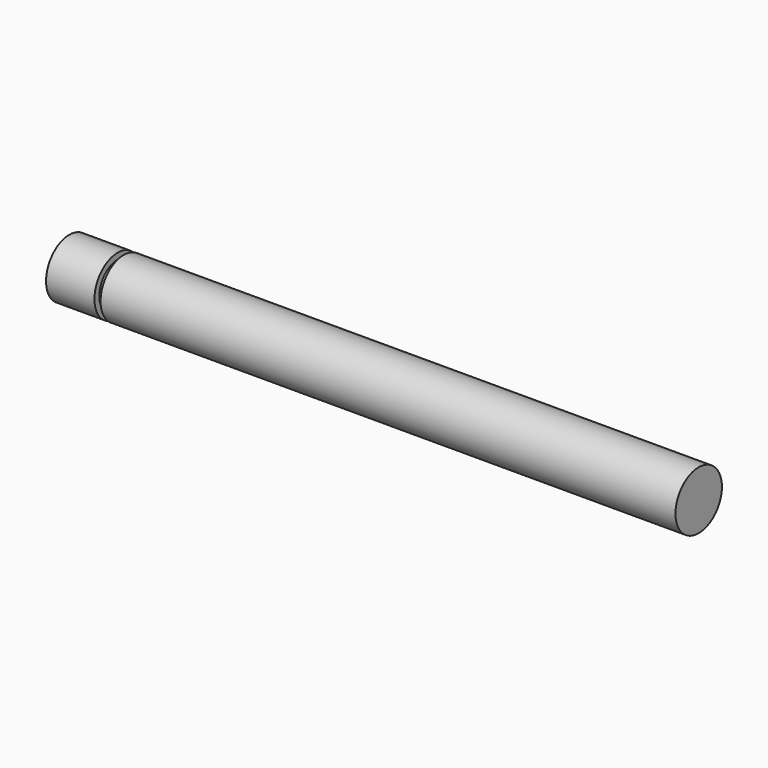
from build123d import *

# Parameters (mm, degrees)
F0_R     = 7.62
F1_DEPTH = 165.1
F2_W     = 1.6002
F2_H     = 1.6002


with BuildPart() as f1:
    # F0 (on Right) → F1 (new body)
    with BuildSketch(Plane.YZ):
        Circle(F0_R)
    extrude(amount=F1_DEPTH)

    # F2 (on Front) → F3 (revolve, cut)
    with BuildSketch(Plane.XZ):
        with Locations((13.5001, 6.8199)):
            Rectangle(F2_W, F2_H)
    revolve(axis=Axis((9.242161, 0, 0), (1, 0, 0)), mode=Mode.SUBTRACT)


solid = f1.part
